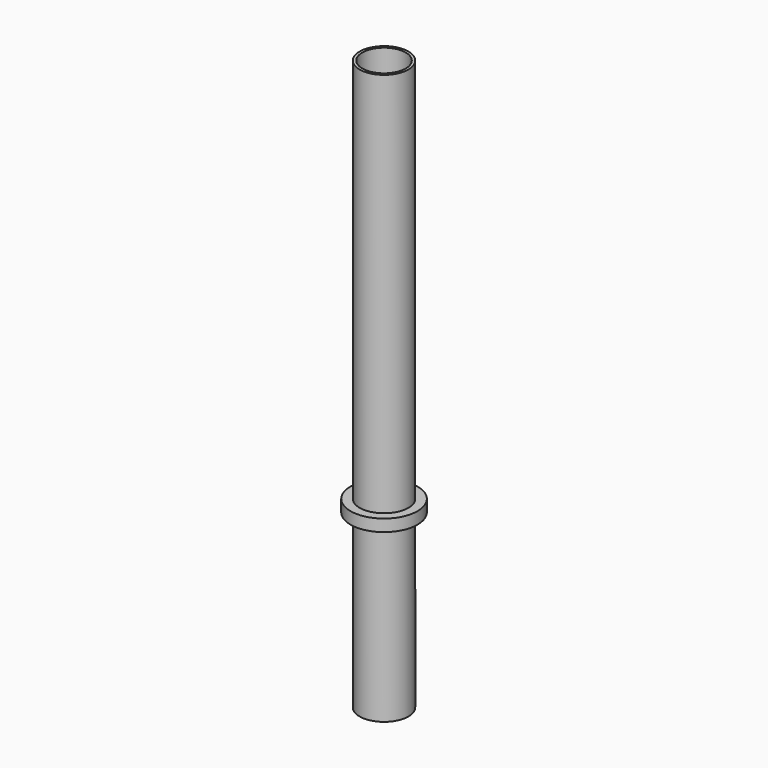
from build123d import *

# Parameters (mm, degrees)
F0_R     = 34.29
F1_DEPTH = 558.8
F2_R     = 46.99
F2_R_2   = 34.29
F3_DEPTH = 16.764
F4_R     = 34.29
F5_DEPTH = 241.3
F7_DEPTH = 38.354
F9_D     = 60.96


with BuildPart() as f1:
    # F0 (on Top) → F1 (new body)
    with BuildSketch(Plane.XY):
        with Locations((-27.8679728508, 21.5611346066)):
            Circle(F0_R)
    extrude(amount=F1_DEPTH)

    # F2 (on face) → F3 (join)
    with BuildSketch(Plane(origin=(0, 0, 0), x_dir=(1, 0, 0), z_dir=(0, 0, -1))):
        with Locations((-27.8679728508, -21.5611346066)):
            Circle(F2_R)
        with Locations((-27.8679728508, -21.5611346066)):
            Circle(F2_R_2, mode=Mode.SUBTRACT)
    extrude(amount=-F3_DEPTH)

    # F4 (on face) → F5 (join)
    with BuildSketch(Plane(origin=(0, 0, 0), x_dir=(1, 0, 0), z_dir=(0, 0, -1))):
        with Locations((-27.8679728508, -21.5611346066)):
            Circle(F4_R)
    extrude(amount=F5_DEPTH)

    # F6 (on face) → F7 (join)
    with BuildSketch(Plane(origin=(0, 0, -241.3), x_dir=(1, 0, 0), z_dir=(0, 0, -1))):
        with BuildLine():
            Line((5.7768958027, -26.0717726025), (5.7768958027, -14.9409447837))
            Line((5.7768958027, -14.9409447837), (-61.5128415043, -14.9409447837))
            ThreePointArc((-61.5128415043, -14.9409447837), (-61.702868113, -15.9930144037), (-61.86000493, -17.0504966107))
            Line((-61.86000493, -17.0504966107), (-61.86000493, -26.0717726025))
            Line((-61.86000493, -26.0717726025), (5.7768958027, -26.0717726025))
        make_face()
    extrude(amount=-F7_DEPTH)

    # F9 (through all)
    with Locations(Plane(origin=(0, 0, -241.3), x_dir=(1, 0, 0), z_dir=(0, 0, -1))):
        with Locations((-27.8679728508, -21.5611346066)):
            Hole(F9_D / 2)


solid = f1.part
